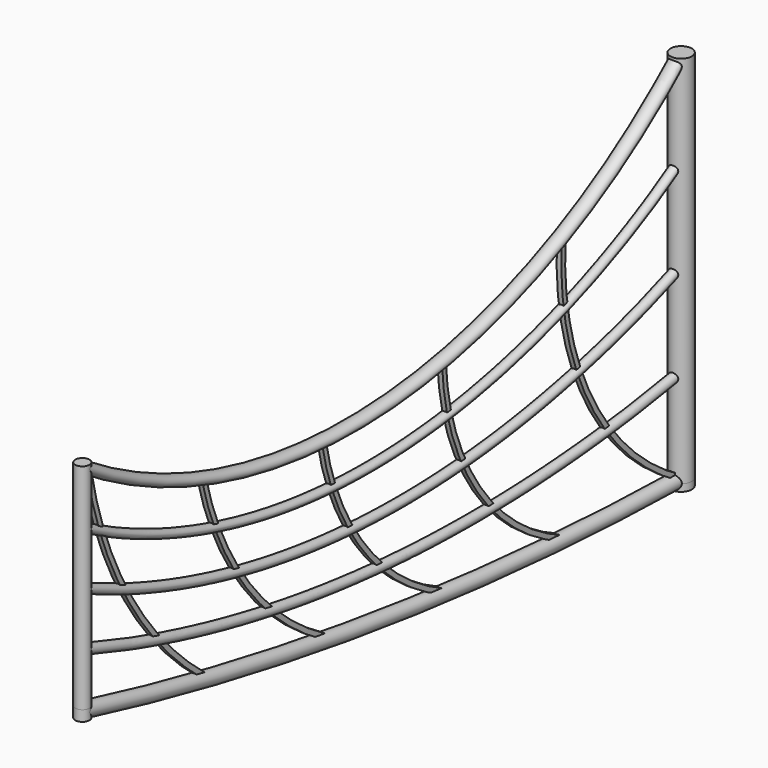
from build123d import *

# Parameters (mm, degrees)
F1_R      = 38
F1_R_2    = 25.5
F7_R      = 57
F8_DEPTH  = 2000
F10_R     = 38
F11_DEPTH = 1145
F13_DEPTH = 50
F14_DEPTH = 38
F15_DEPTH = 57
F17_DEPTH = 12.5


with BuildPart() as f2:
    # F2: sweep along a path in F0
    with BuildLine(Plane.YZ) as f2_path:
        ThreePointArc((-4000, 533.0000000002), (-2015.3052753069, 151.6386468524), (0, 2e-10))
    # F1 (on Front) → F2 (sweep)
    with BuildSketch(Plane.XZ):
        Circle(F1_R)
    sweep(path=f2_path.line)


with BuildPart() as f3:
    # F3: sweep along a path in F0
    with BuildLine(Plane.YZ) as f3_path:
        ThreePointArc((-4000, 819), (-2020.5977026073, 401.2215974005), (0, 500))
    # F1 (on Front) → F3 (sweep)
    with BuildSketch(Plane.XZ):
        with Locations((0, 500)):
            Circle(F1_R_2)
    sweep(path=f3_path.line)


with BuildPart() as f4:
    # F4: sweep along a path in F0
    with BuildLine(Plane.YZ) as f4_path:
        ThreePointArc((-4000, 1105), (-2010.5689675587, 649.8726644314), (0, 1000))
    # F1 (on Front) → F4 (sweep)
    with BuildSketch(Plane.XZ):
        with Locations((0, 1000)):
            Circle(F1_R_2)
    sweep(path=f4_path.line)


with BuildPart() as f5:
    # F5: sweep along a path in F0
    with BuildLine(Plane.YZ) as f5_path:
        ThreePointArc((-4000, 1391), (-1985.1346632227, 899.9830540436), (0, 1500))
    # F1 (on Front) → F5 (sweep)
    with BuildSketch(Plane.XZ):
        with Locations((0, 1500)):
            Circle(F1_R_2)
    sweep(path=f5_path.line)


with BuildPart() as f6:
    # F6: sweep along a path in F0
    with BuildLine(Plane.YZ) as f6_path:
        ThreePointArc((-4000, 1678), (-1944.8235672753, 1153.5784754692), (0, 2000))
    # F1 (on Front) → F6 (sweep)
    with BuildSketch(Plane.XZ):
        with Locations((0, 2000)):
            Circle(F1_R)
    sweep(path=f6_path.line)

    # F12 (on face) → F13 (cut)
    with BuildSketch(Plane(origin=(0, 0, 0), x_dir=(-1, 0, 0), z_dir=(0, 1, 0))):
        with BuildLine():
            Line((-38, 2000), (38, 2000))
            ThreePointArc((38, 2000), (0, 2038), (-38, 2000))
        make_face()
    extrude(amount=-F13_DEPTH, mode=Mode.SUBTRACT)


with BuildPart() as f8:
    # F7 (on Top) → F8 (new body)
    with BuildSketch(Plane.XY):
        Circle(F7_R)
    extrude(amount=F8_DEPTH)


with BuildPart() as f11:
    # F10 (on offset) → F11 (new body)
    with BuildSketch(Plane.XY.offset(553)):
        with Locations((0, -4000)):
            Circle(F10_R)
    extrude(amount=F11_DEPTH)


with BuildPart() as f14:
    # F14 (new): a face of the model
    f14_faces = [f8.part.faces().sort_by_distance(p)[0] for p in [
        (0, 0, 0),
    ]]
    extrude(f14_faces, amount=F14_DEPTH)


with BuildPart() as f15:
    # F15 (new): a face of the model
    f15_faces = [f11.part.faces().sort_by_distance(p)[0] for p in [
        (0, -4000, 553),
    ]]
    extrude(f15_faces, amount=F15_DEPTH)


with BuildPart() as f17:
    # F16 (on Right) → F17 (new body, symmetric)
    with BuildSketch(Plane.YZ):
        with BuildLine():
            ThreePointArc((-800, 1452.8470039368), (-613.1629082012, 609.0468435186), (0, 0))
            Line((0, 0), (0, 14.8046469047))
            ThreePointArc((0, 14.8046469047), (-603.4727576431, 618.4087552625), (-787.0296233, 1451.9698903414))
            Line((-787.0296233, 1451.9698903414), (-800, 1452.8470039368))
        make_face()
        with BuildLine():
            Line((-26.9062107587, 0), (0, 0))
            ThreePointArc((0, 0), (-613.1629082012, 609.0468435186), (-800, 1452.8470039368))
            Line((-800, 1452.8470039368), (-812.9703767, 1453.7241175321))
            ThreePointArc((-812.9703767, 1453.7241175321), (-630.2164728771, 613.1595071512), (-26.9062107586, 0))
        make_face()
    extrude(amount=F17_DEPTH, both=True)


with BuildPart() as f17b:
    # F16 (on Right) → F17, piece 2 (new body, symmetric)
    with BuildSketch(Plane.YZ):
        with BuildLine():
            Line((-1587.0117370785, 1195.8129358041), (-1600, 1195.260643959))
            ThreePointArc((-1600, 1195.260643959), (-1367.0303917029, 503.314469502), (-800, 43.3787330985))
            Line((-800, 43.3787330985), (-794.9468820556, 55.3564623925))
            ThreePointArc((-794.9468820556, 55.3564623925), (-1356.3529383028, 510.7301278604), (-1587.0117370785, 1195.8129358041))
        make_face()
        with BuildLine():
            ThreePointArc((-800, 43.3787330985), (-1367.0303917029, 503.314469502), (-1600, 1195.260643959))
            Line((-1600, 1195.260643959), (-1612.9882629215, 1194.708352114))
            ThreePointArc((-1612.9882629215, 1194.708352114), (-1377.7078451031, 495.8988111437), (-805.0531179444, 31.4010038045))
            Line((-805.0531179444, 31.4010038045), (-800, 43.3787330985))
        make_face()
    extrude(amount=F17_DEPTH, both=True)


with BuildPart() as f17c:
    # F16 (on Right) → F17, piece 3 (new body, symmetric)
    with BuildSketch(Plane.YZ):
        with BuildLine():
            Line((-2387.218753069, 1141.543073398), (-2400, 1139.1682624817))
            ThreePointArc((-2400, 1139.1682624817), (-2125.1768789729, 530.636248253), (-1600, 118.2914823294))
            Line((-1600, 118.2914823294), (-1594.6382345822, 130.1342637427))
            ThreePointArc((-1594.6382345822, 130.1342637427), (-2114.9444383743, 538.6547992065), (-2387.218753069, 1141.543073398))
        make_face()
        with BuildLine():
            ThreePointArc((-1600, 118.2914823294), (-2125.1768789729, 530.636248253), (-2400, 1139.1682624817))
            Line((-2400, 1139.1682624817), (-2412.781246931, 1136.7934515654))
            ThreePointArc((-2412.781246931, 1136.7934515654), (-2135.4093195716, 522.6176972994), (-1605.3617654178, 106.448700916))
            Line((-1605.3617654178, 106.448700916), (-1600, 118.2914823294))
        make_face()
    extrude(amount=F17_DEPTH, both=True)


with BuildPart() as f17d:
    # F16 (on Right) → F17, piece 4 (new body, symmetric)
    with BuildSketch(Plane.YZ):
        with BuildLine():
            Line((-3187.3814725463, 1290.6632401064), (-3200, 1287.5370979309))
            ThreePointArc((-3200, 1287.5370979309), (-2908.5493603625, 677.5195204608), (-2400, 232.0507019758))
            Line((-2400, 232.0507019758), (-2393.5798960711, 243.3547837847))
            ThreePointArc((-2393.5798960711, 243.3547837847), (-2898.1890010351, 685.3720967647), (-3187.3814725463, 1290.6632401064))
        make_face()
        with BuildLine():
            ThreePointArc((-2400, 232.0507019758), (-2908.5493603625, 677.5195204608), (-3200, 1287.5370979309))
            Line((-3200, 1287.5370979309), (-3212.6185274537, 1284.4109557554))
            ThreePointArc((-3212.6185274537, 1284.4109557554), (-2918.9097196899, 669.666944157), (-2406.4201039289, 220.746620167))
            Line((-2406.4201039289, 220.746620167), (-2400, 232.0507019758))
        make_face()
    extrude(amount=F17_DEPTH, both=True)


with BuildPart() as f17e:
    # F16 (on Right) → F17, piece 5 (new body, symmetric)
    with BuildSketch(Plane.YZ):
        with BuildLine():
            Line((-3954.9792014421, 1640.7472341974), (-3967.7443083716, 1638.287143736))
            ThreePointArc((-3967.7443083716, 1638.287143736), (-3697.3342168495, 936.3184104666), (-3200, 371.9245791435))
            Line((-3200, 371.9245791435), (-3191.9153328107, 382.1048618723))
            ThreePointArc((-3191.9153328107, 382.1048618723), (-3686.2176250893, 943.0579495931), (-3954.9792014421, 1640.7472341974))
        make_face()
        with BuildLine():
            ThreePointArc((-3200, 371.9245791435), (-3697.3342168495, 936.3184104666), (-3967.7443083716, 1638.287143736))
            Line((-3967.7443083716, 1638.287143736), (-3980.5094153011, 1635.8270532745))
            ThreePointArc((-3980.5094153011, 1635.8270532745), (-3708.4508086096, 929.5788713401), (-3208.0846671893, 361.7442964148))
            Line((-3208.0846671893, 361.7442964148), (-3200, 371.9245791435))
        make_face()
    extrude(amount=F17_DEPTH, both=True)


solid = Compound([f2.part, f3.part, f4.part, f5.part, f6.part, f8.part, f11.part, f14.part, f15.part, f17.part, f17b.part, f17c.part, f17d.part, f17e.part])
